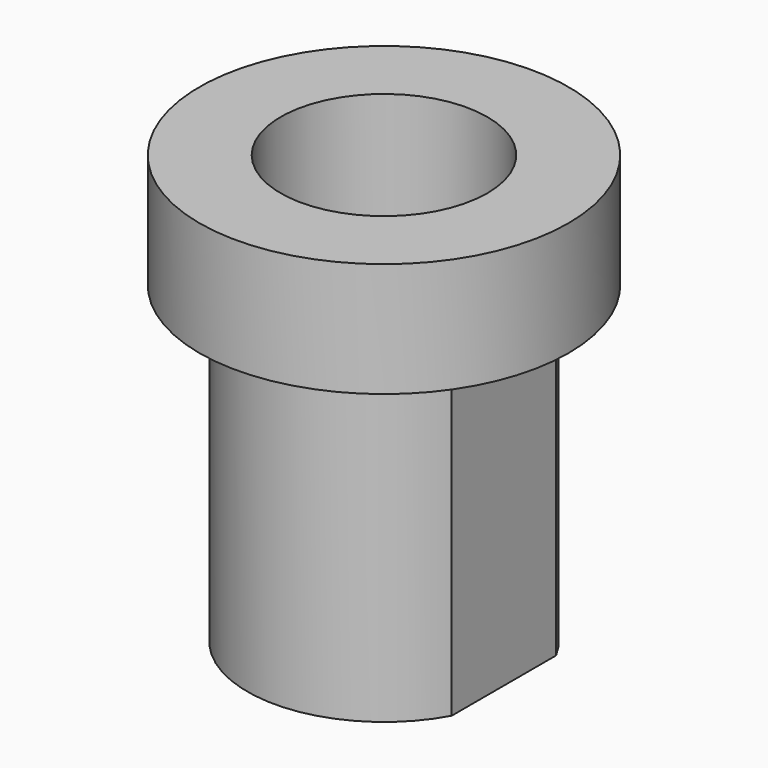
from build123d import *

# Parameters (mm, degrees)
PAD005_DEPTH    = 8.5
SKETCH013_R     = 5
PAD006_DEPTH    = 3.1
SKETCH015_R     = 2.8
POCKET005_DEPTH = 10


with BuildPart() as part:
    # Sketch012 (on Face1 of CopyCylinder) → Pad005 (new body)
    with BuildSketch(Plane(origin=(0, 0, 0), x_dir=(1, 0, 0), z_dir=(0, 0, -1))):
        with BuildLine():
            ThreePointArc((-3.25, -1.768474), (0, -3.7), (3.25, -1.768474))
            Line((3.25, -1.768474), (3.25, 1.768474))
            ThreePointArc((3.25, 1.768474), (0, 3.7), (-3.25, 1.768474))
            Line((-3.25, 1.768474), (-3.25, -1.768474))
        make_face()
    extrude(amount=PAD005_DEPTH)

    # Sketch013 (on Face5 of Pad005) → Pad006 (join)
    with BuildSketch(Plane.XY):
        Circle(SKETCH013_R)
    extrude(amount=PAD006_DEPTH)

    # Sketch015 (on Face3 of Pad006) → Pocket005 (cut)
    with BuildSketch(Plane.XY.offset(3.1)):
        Circle(SKETCH015_R)
    extrude(amount=-POCKET005_DEPTH, mode=Mode.SUBTRACT)


solid = part.part
